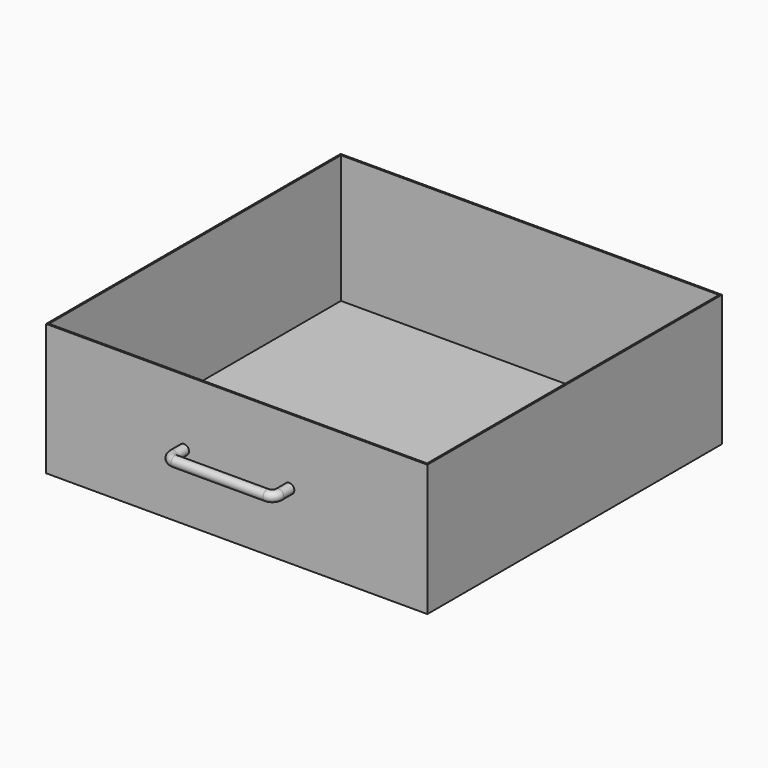
from build123d import *

# Parameters (mm, degrees)
F0_W     = 736.6
F0_H     = 254
F1_DEPTH = 711.2
F2_W     = 730.25
F2_H     = 704.85
F3_DEPTH = 247.65
F5_R     = 9.525


with BuildPart() as f1:
    # F0 (on Front) → F1 (new body)
    with BuildSketch(Plane.XZ):
        Rectangle(F0_W, F0_H)
    extrude(amount=-F1_DEPTH)

    # F2 (on face) → F3 (cut)
    with BuildSketch(Plane.XY.offset(127)):
        with Locations((0, 355.6)):
            Rectangle(F2_W, F2_H)
    extrude(amount=-F3_DEPTH, mode=Mode.SUBTRACT)

    # F6: sweep along a path in F4
    with BuildLine(Plane.XY) as f6_path:
        Line((-101.6, 0), (-101.6, -25.4))
        ThreePointArc((-101.6, -25.4), (-97.8802561211, -34.3802561211), (-88.9, -38.1))
        Line((-88.9, -38.1), (88.9, -38.1))
        ThreePointArc((88.9, -38.1), (97.8802561211, -34.3802561211), (101.6, -25.4))
        Line((101.6, -25.4), (101.6, 0))
    # F5 (on face) → F6 (sweep)
    with BuildSketch(Plane.XZ):
        with Locations((-101.6819179058, 0)):
            Circle(F5_R)
    sweep(path=f6_path.line)


solid = f1.part
